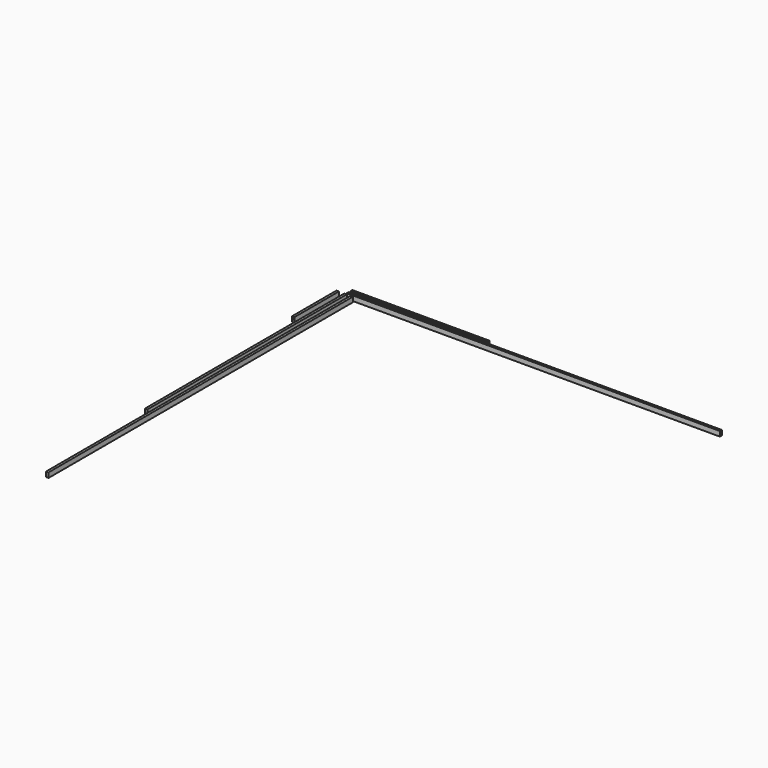
from build123d import *

# Parameters (mm, degrees)
F0_W      = 19.05
F0_H      = 38.1
F3_DEPTH  = 431.8
F1_W      = 19.05
F1_H      = 38.1
F4_DEPTH  = 1930.4
F2_W      = 19.05
F2_H      = 38.1
F5_DEPTH  = 2946.4
F6_W      = 19.05
F6_H      = 38.1
F8_DEPTH  = 2889.25
F7_W      = 19.05
F7_H      = 38.1
F9_DEPTH  = 1060.45
F10_R     = 4.7625
F11_DEPTH = 20.6375
F12_R     = 4.7625
F13_DEPTH = 20.6375


with BuildPart() as f3:
    # F0 (on Front) → F3 (new body)
    with BuildSketch(Plane.XZ):
        with Locations((-60.714196, 0)):
            Rectangle(F0_W, F0_H)
    extrude(amount=F3_DEPTH)

    # F10 (on face) → F11 (cut)
    with BuildSketch(Plane.XZ.offset(431.8)):
        with Locations((-60.714196, 6.35)):
            Circle(F10_R)
    extrude(amount=-F11_DEPTH, mode=Mode.SUBTRACT)

    # F12 (on face) → F13 (cut)
    with BuildSketch(Plane(origin=(0, 0, 0), x_dir=(-1, 0, 0), z_dir=(0, 1, 0))):
        with Locations((60.714196, 6.35)):
            Circle(F12_R)
    extrude(amount=-F13_DEPTH, mode=Mode.SUBTRACT)


with BuildPart() as f4:
    # F1 (on Front) → F4 (new body)
    with BuildSketch(Plane.XZ):
        Rectangle(F1_W, F1_H)
    extrude(amount=F4_DEPTH)


with BuildPart() as f5:
    # F2 (on Front) → F5 (new body)
    with BuildSketch(Plane.XZ):
        with Locations((48.163462, 0)):
            Rectangle(F2_W, F2_H)
    extrude(amount=F5_DEPTH)


with BuildPart() as f8:
    # F6 (on Right) → F8 (new body)
    with BuildSketch(Plane.YZ):
        with Locations((20.861482, 0)):
            Rectangle(F6_W, F6_H)
    extrude(amount=F8_DEPTH)


with BuildPart() as f9:
    # F7 (on Right) → F9 (new body)
    with BuildSketch(Plane.YZ):
        with Locations((55.57505, 0)):
            Rectangle(F7_W, F7_H)
    extrude(amount=F9_DEPTH)


solid = Compound([f3.part, f4.part, f5.part, f8.part, f9.part])
